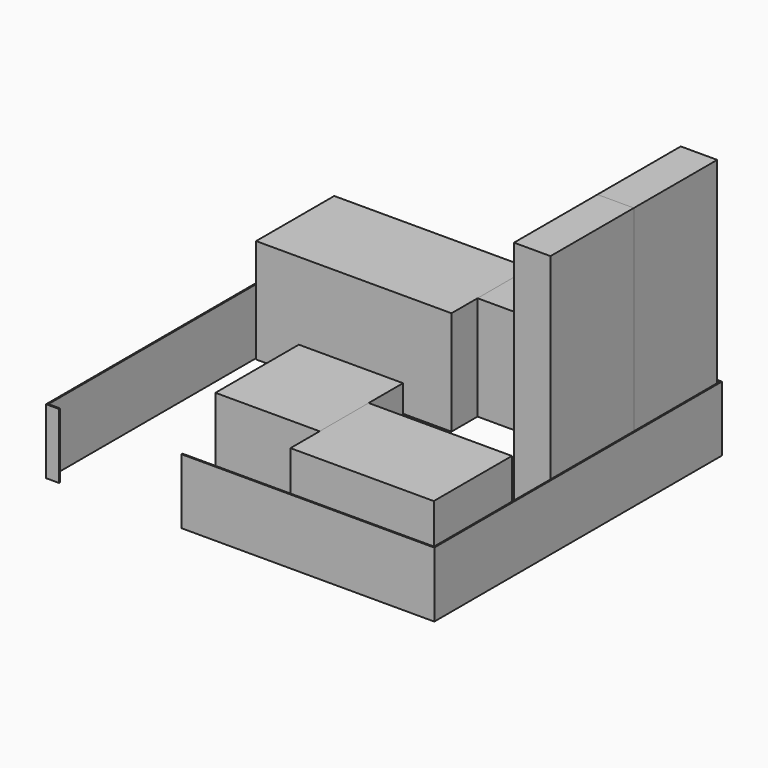
from build123d import *

# Parameters (mm, degrees)
F1_DEPTH = 500
F0_W     = 280
F0_H     = 800
F2_DEPTH = 2000
F0_W_2   = 760
F0_H_2   = 200
F3_DEPTH = 500
F4_DEPTH = 800
F5_DEPTH = 800
F6_DEPTH = 800
F7_DEPTH = 2000
F0_W_3   = 400
F0_H_3   = 500
F8_DEPTH = 800


with BuildPart() as f1:
    # F0 (on Top) → F1 (new body)
    with BuildSketch(Plane.XY):
        Polygon((-1490, -750), (-1490, 1990), (1470, 1990), (1470, -750), (-460, -750), (-460, -760), (1480, -760), (1480, 2000), (-1500, 2000), (-1500, -760), (-1400, -760), (-1400, -750), align=None)
    extrude(amount=F1_DEPTH)


with BuildPart() as f2:
    # F0 (on Top) → F2 (new body)
    with BuildSketch(Plane.XY):
        with Locations((1320, 780)):
            Rectangle(F0_W, F0_H)
    extrude(amount=F2_DEPTH)


with BuildPart() as f3:
    # F0 (on Top) → F3 (new body)
    with BuildSketch(Plane.XY):
        with Locations((-1020, 1880)):
            Rectangle(F0_W_2, F0_H_2)
    extrude(amount=F3_DEPTH)


with BuildPart() as f4:
    # F0 (on Top) → F4 (new body)
    with BuildSketch(Plane.XY):
        with Locations((-1020, 1880)):
            Rectangle(F0_W_2, F0_H_2)
        Polygon((-1400, 1780), (-1400, 1980), (-1480, 1980), (-1480, 1230), (20, 1230), (20, 1480), (20, 1980), (-640, 1980), (-640, 1780), align=None)
        with Locations((-1020, 1880)):
            Rectangle(F0_W_2, F0_H_2)
    extrude(amount=F4_DEPTH)


with BuildPart() as f5:
    # F0 (on Top) → F5 (new body)
    with BuildSketch(Plane.XY):
        Polygon((360, -460), (360, 10), (360, 340), (-440, 340), (-440, -460), align=None)
    extrude(amount=F5_DEPTH)


with BuildPart() as f6:
    # F0 (on Top) → F6 (new body)
    with BuildSketch(Plane.XY):
        Polygon((1460, 10), (360, 10), (360, -460), (360, -740), (1460, -740), align=None)
    extrude(amount=F6_DEPTH)


with BuildPart() as f7:
    # F0 (on Top) → F7 (new body)
    with BuildSketch(Plane.XY):
        with Locations((1320, 1580)):
            Rectangle(F0_W, F0_H)
    extrude(amount=F7_DEPTH)


with BuildPart() as f8:
    # F0 (on Top) → F8 (new body)
    with BuildSketch(Plane.XY):
        with Locations((220, 1730)):
            Rectangle(F0_W_3, F0_H_3)
    extrude(amount=F8_DEPTH)


solid = Compound([f1.part, f2.part, f3.part, f4.part, f5.part, f6.part, f7.part, f8.part])
